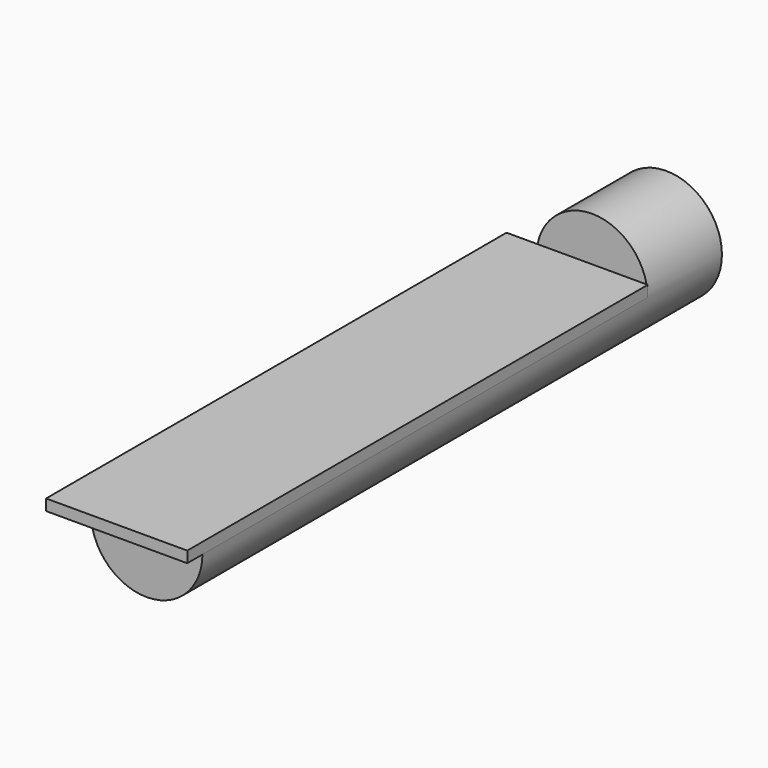
from build123d import *

# Parameters (mm, degrees)
F1_DEPTH = 150
F3_R     = 15
F4_DEPTH = 25
F5_W     = 38.047614
F5_H     = 3
F6_DEPTH = 155.1


with BuildPart() as f1:
    # F0 (on Front) → F1 (new body)
    with BuildSketch(Plane.XZ):
        with BuildLine():
            Line((15, 0), (-15, 0))
            ThreePointArc((-15, 0), (0, -15), (15, 0))
        make_face()
    extrude(amount=F1_DEPTH)

    # F3 (on Front) → F4 (join)
    with BuildSketch(Plane.XZ):
        Circle(F3_R)
    extrude(amount=-F4_DEPTH)

    # F5 (on face) → F6 (join)
    with BuildSketch(Plane.XZ):
        with Locations((-4.023807, 1.5)):
            Rectangle(F5_W, F5_H)
    extrude(amount=F6_DEPTH)


solid = f1.part
